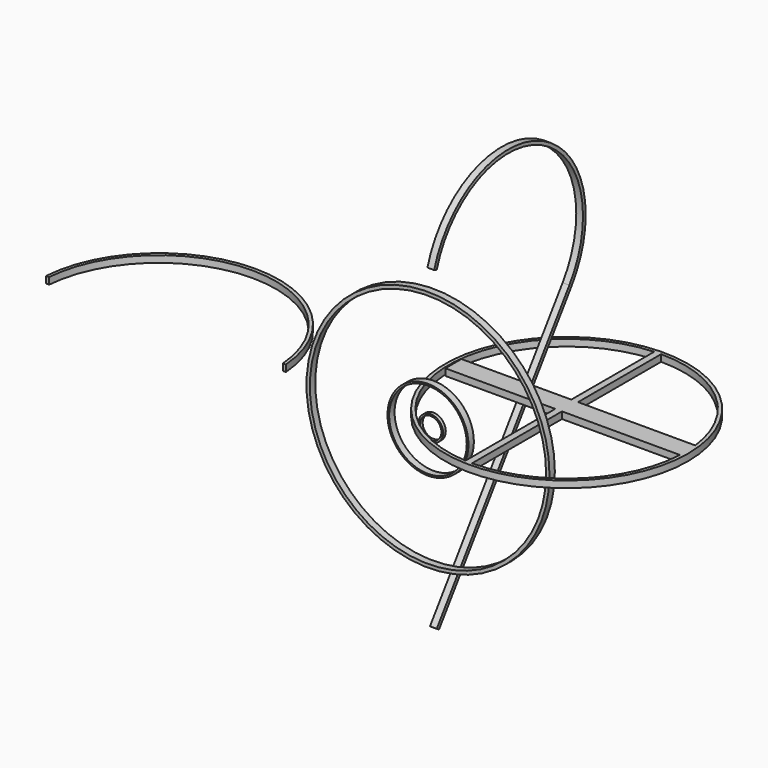
from build123d import *

# Parameters (mm, degrees)
F0_R      = 457.2
F0_R_2    = 444.5
F1_DEPTH  = 25.4
F3_DEPTH  = 25.4
F4_R      = 152.4
F4_R_2    = 146.05
F5_DEPTH  = 25.4
F6_R      = 46.6768431444
F6_R_2    = 40.3268432211
F8_DEPTH  = 12.7
F10_DEPTH = 12.7
F11_R     = 457.2
F12_DEPTH = 25.4
F13_W     = 889.8894190788
F13_H     = 75.5656063557
F14_DEPTH = 25.4


with BuildPart() as f1:
    # F0 (on Front) → F1 (new body)
    with BuildSketch(Plane.XZ):
        Circle(F0_R)
        Circle(F0_R_2, mode=Mode.SUBTRACT)
    extrude(amount=F1_DEPTH)


with BuildPart() as f3:
    # F2 (on Top) → F3 (new body)
    with BuildSketch(Plane.XY):
        with BuildLine():
            Line((-566.236615181, 0), (-555.1668405533, 0))
            ThreePointArc((-555.1668405533, 0), (-1006.3582658768, 420.1115137577), (-1457.5496912003, 0))
            Line((-1457.5496912003, 0), (-1446.0895359516, 0))
            ThreePointArc((-1446.0895359516, 0), (-1006.1630755663, 406.4124604986), (-566.236615181, 0))
        make_face()
    extrude(amount=F3_DEPTH)


with BuildPart() as f5:
    # F4 (on Front) → F5 (new body)
    with BuildSketch(Plane.XZ):
        Circle(F4_R)
        Circle(F4_R_2, mode=Mode.SUBTRACT)
    extrude(amount=F5_DEPTH)


with BuildPart() as f8:
    # F6 (on Front) → F8 (new body)
    with BuildSketch(Plane.XZ):
        Circle(F6_R)
        Circle(F6_R_2, mode=Mode.SUBTRACT)
    extrude(amount=F8_DEPTH)


with BuildPart() as f10:
    # F9 (on Right) → F10 (new body, symmetric)
    with BuildSketch(Plane.YZ):
        with BuildLine():
            Line((623.7519979477, 219.0530896187), (0, -665.4840707779))
            Line((0, -665.4840707779), (10.3789578143, -672.8030348227))
            Line((10.3789578143, -672.8030348227), (634.130955762, 211.7341255738))
            ThreePointArc((634.130955762, 211.7341255738), (496.3913163311, 748.9796108692), (-12.150935451, 527.6434459682))
            Line((-12.150935451, 527.6434459682), (0, 523.9495635033))
            ThreePointArc((0, 523.9495635033), (490.8140703039, 737.5697762187), (623.7519979477, 219.0530896187))
        make_face()
    extrude(amount=F10_DEPTH, both=True)


with BuildPart() as f12:
    # F11 (on Top) → F12 (new body)
    with BuildSketch(Plane.XY):
        with Locations((264.9211585522, 295.6164181232)):
            Circle(F11_R)
        with BuildLine():
            ThreePointArc((264.9211585522, 740.1164181232), (440.0932059094, 704.1442676325), (586.9128786915, 602.050068628))
            ThreePointArc((586.9128786915, 602.050068628), (595.5401450044, 592.7213420092), (603.897242393, 583.1498328492))
            ThreePointArc((603.897242393, 583.1498328492), (682.2071032395, 448.7591305401), (709.4211585522, 295.6164181232))
            ThreePointArc((709.4211585522, 295.6164181232), (689.7160594132, 164.7365411272), (632.3478528041, 45.4607179062))
            ThreePointArc((632.3478528041, 45.4607179062), (625.0475022676, 35.0607300983), (617.4528705467, 24.8736582233))
            ThreePointArc((617.4528705467, 24.8736582233), (461.4346354749, -103.0848527397), (264.9211585522, -148.8835818768))
            ThreePointArc((264.9211585522, -148.8835818768), (252.2159674592, -148.7019678561), (239.5211585522, -148.157274202))
            ThreePointArc((239.5211585522, -148.157274202), (-179.5788414478, 295.6164181232), (239.5211585522, 739.3901104485))
            ThreePointArc((239.5211585522, 739.3901104485), (252.2159674592, 739.9348041026), (264.9211585522, 740.1164181232))
        make_face(mode=Mode.SUBTRACT)
        with BuildLine():
            Line((264.9211585522, 295.6164181232), (264.9211585522, 740.1164181232))
            ThreePointArc((264.9211585522, 740.1164181232), (252.2159674592, 739.9348041026), (239.5211585522, 739.3901104485))
            Line((239.5211585522, 739.3901104485), (239.5211585522, -148.157274202))
            ThreePointArc((239.5211585522, -148.157274202), (252.2159674592, -148.7019678561), (264.9211585522, -148.8835818768))
            Line((264.9211585522, -148.8835818768), (264.9211585522, 295.6164181232))
        make_face()
    extrude(amount=F12_DEPTH)

    # F13 (on Top) → F14 (join)
    with BuildSketch(Plane.XY):
        with Locations((270.9531486034, 311.6036430001)):
            Rectangle(F13_W, F13_H)
    extrude(amount=F14_DEPTH)


solid = Compound([f1.part, f3.part, f5.part, f8.part, f10.part, f12.part])
